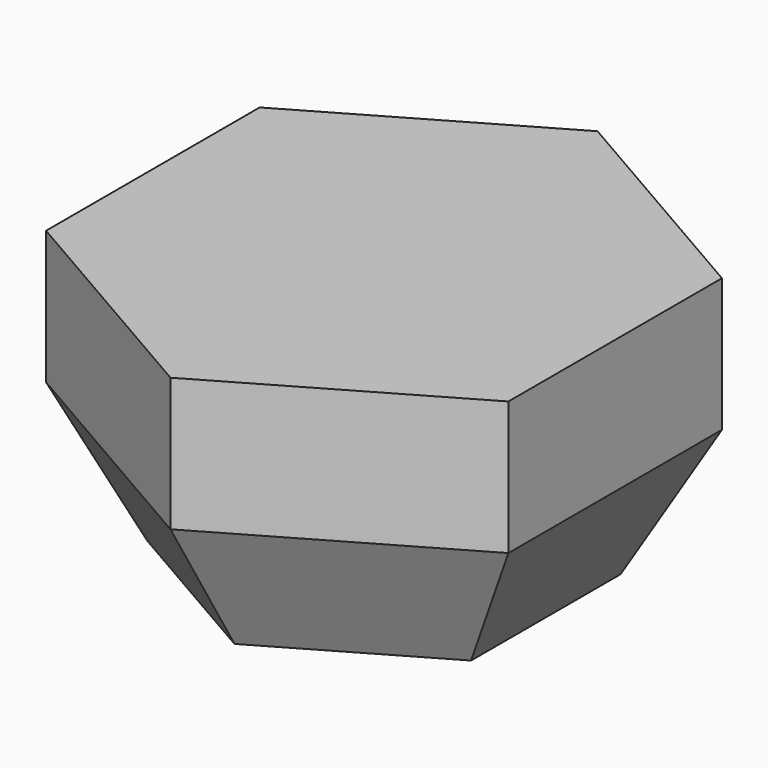
from build123d import *

# Parameters (mm, degrees)
F4_DEPTH = 30


with BuildPart() as f3:
    # F0 (on Top) → F3 section 0
    with BuildSketch(Plane.XY):
        Polygon((-36.3730669589, -21), (0, -42), (36.3730669589, -21), (36.3730669589, 21), (0, 42), (-36.3730669589, 21), align=None)
    # F2 (on offset) → F3 section 1
    with BuildSketch(Plane.XY.offset(30)):
        Polygon((-51.9615242271, -30), (0, -60), (51.9615242271, -30), (51.9615242271, 30), (0, 60), (-51.9615242271, 30), align=None)
    loft()

    # F4 (add): a face of the model
    f4_faces = [f3.faces().sort_by_distance(p)[0] for p in [
        (0, 0, 30),
    ]]
    extrude(f4_faces, amount=F4_DEPTH)


solid = f3.part
